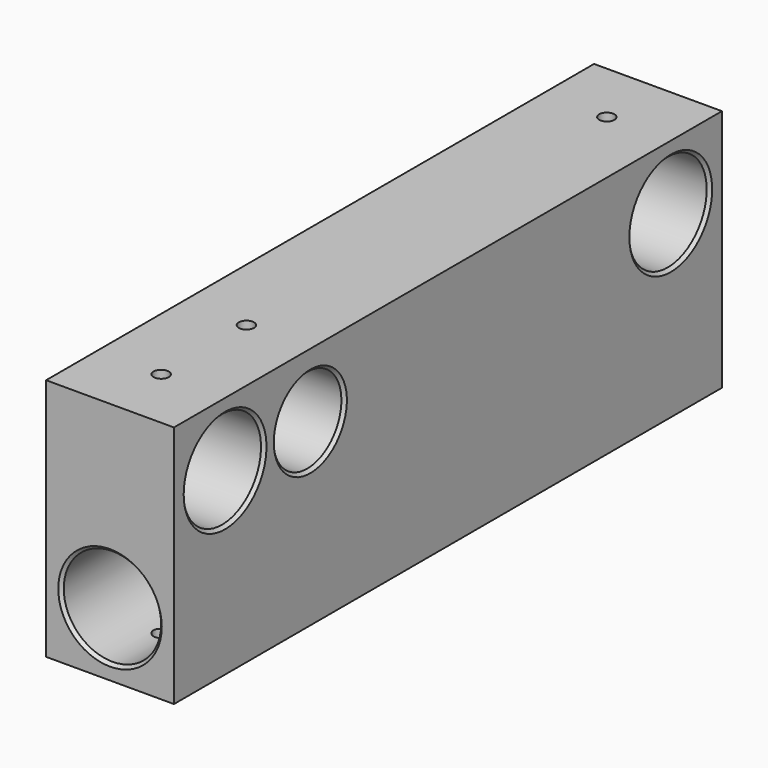
from build123d import *

# Parameters (mm, degrees)
F0_W     = 42
F0_H     = 80
F0_R     = 16
F1_DEPTH = 225
F2_R     = 16
F2_R_2   = 14
F3_DEPTH = 100
F4_R     = 2.5
F5_DEPTH = 25
F6_R     = 2.5
F7_DEPTH = 25
F8_SIZE  = 1


with BuildPart() as f1:
    # F0 (on Front) → F1 (new body)
    with BuildSketch(Plane.XZ):
        Rectangle(F0_W, F0_H)
        with Locations((0, -19)):
            Circle(F0_R, mode=Mode.SUBTRACT)
    extrude(amount=-F1_DEPTH)

    # F2 (on face) → F3 (cut)
    with BuildSketch(Plane(origin=(-21, 0, 0), x_dir=(0, -1, 0), z_dir=(-1, 0, 0))):
        with Locations((-204, 19)):
            Circle(F2_R)
        with Locations((-56, 19)):
            Circle(F2_R_2)
        with Locations((-21, 19)):
            Circle(F2_R)
    extrude(amount=-F3_DEPTH, mode=Mode.SUBTRACT)

    # F4 (on face) → F5 (cut)
    with BuildSketch(Plane.XY.offset(40)):
        with Locations((0, 21)):
            Circle(F4_R)
        with Locations((0, 56)):
            Circle(F4_R)
        with Locations((0, 204)):
            Circle(F4_R)
    extrude(amount=-F5_DEPTH, mode=Mode.SUBTRACT)

    # F6 (on face) → F7 (cut)
    with BuildSketch(Plane(origin=(0, 0, -40), x_dir=(1, 0, 0), z_dir=(0, 0, -1))):
        with Locations((0, -21)):
            Circle(F6_R)
        with Locations((0, -204)):
            Circle(F6_R)
        with Locations((0, -105)):
            Circle(F6_R)
        with Locations((0, -155)):
            Circle(F6_R)
    extrude(amount=-F7_DEPTH, mode=Mode.SUBTRACT)

    # F8
    f8_edges = [f1.edges().sort_by_distance(p)[0] for p in [
        (-21, 70, 19),
        (-21, 37, 19),
        (-16, 0, -19),
        (-21, 220, 19),
        (21, 37, 19),
        (21, 70, 19),
        (21, 220, 19),
        (-16, 225, -19),
    ]]
    chamfer(f8_edges, length=F8_SIZE)


solid = f1.part
